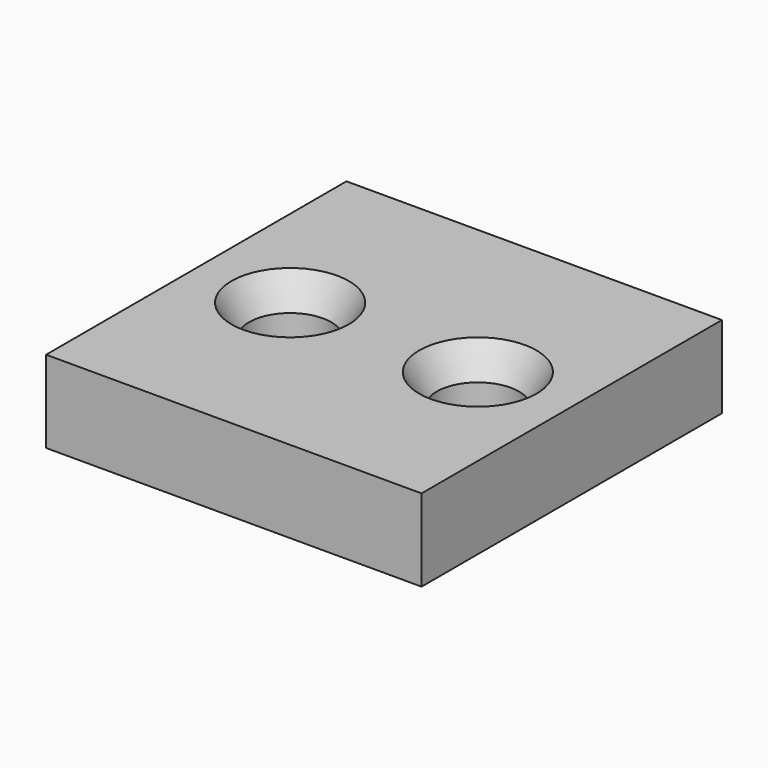
from build123d import *

# Parameters (mm, degrees)
F0_W           = 32
F0_H           = 32
F1_DEPTH       = 7
F3_D           = 7
F3_CSINK_D     = 10
F3_CSINK_ANGLE = 60


with BuildPart() as f1:
    # F0 (on Top) → F1 (new body)
    with BuildSketch(Plane.XY):
        Rectangle(F0_W, F0_H)
    extrude(amount=F1_DEPTH)

    # F3 (through all)
    with Locations(Plane.XY.offset(7)):
        with Locations((-8, 0), (8, 0)):
            CounterSinkHole(F3_D / 2, F3_CSINK_D / 2, counter_sink_angle=F3_CSINK_ANGLE)


solid = f1.part
